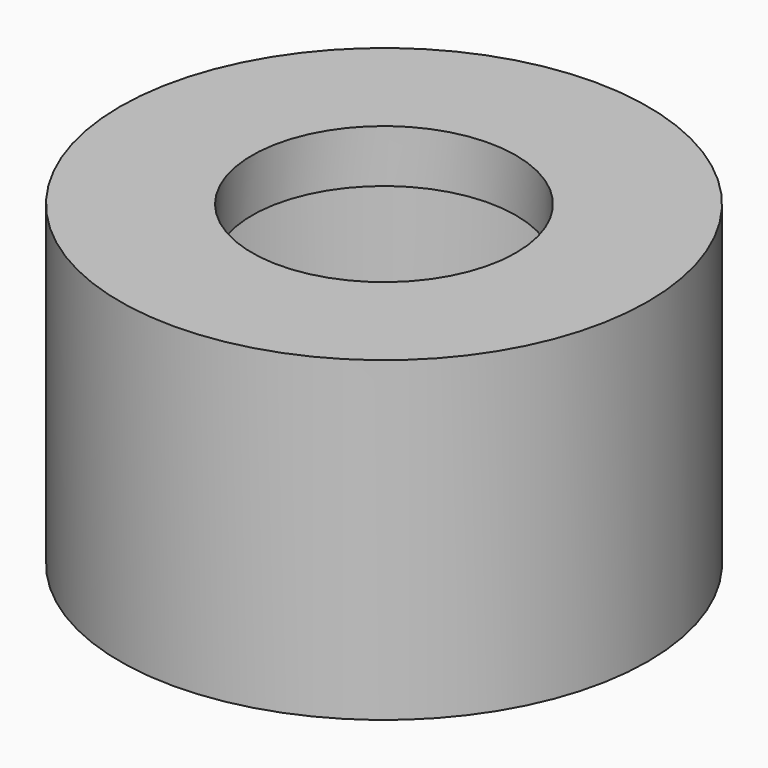
from build123d import *

# Parameters (mm, degrees)
F0_R     = 5
F0_R_2   = 4.25
F0_R_3   = 2.5
F1_DEPTH = 1
F2_DEPTH = 6
F3_START = 5
F3_DEPTH = 1


with BuildPart() as f1:
    # F0 (on Top) → F1 (new body)
    with BuildSketch(Plane.XY):
        Circle(F0_R)
        Circle(F0_R_2, mode=Mode.SUBTRACT)
        Circle(F0_R_2)
        Circle(F0_R_3, mode=Mode.SUBTRACT)
        Circle(F0_R_3)
    extrude(amount=F1_DEPTH)

    # F0 (on Top) → F2 (join)
    with BuildSketch(Plane.XY):
        Circle(F0_R)
        Circle(F0_R_2, mode=Mode.SUBTRACT)
    extrude(amount=F2_DEPTH)

    # F0 (on Top) → F3 (join)
    with BuildSketch(Plane.XY.offset(F3_START)):
        Circle(F0_R_2)
        Circle(F0_R_3, mode=Mode.SUBTRACT)
    extrude(amount=F3_DEPTH)


solid = f1.part
